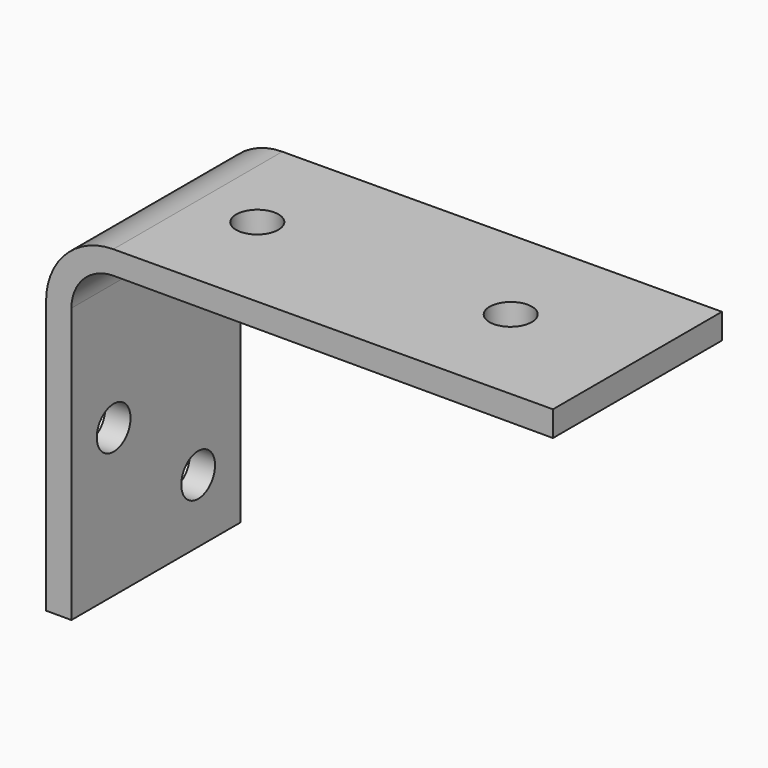
from build123d import *

# Parameters (mm, degrees)
F1_DEPTH = 50
F2_R     = 5
F3_DEPTH = 25
F4_R     = 5
F5_DEPTH = 25


with BuildPart() as f1:
    # F0 (on Front) → F1 (new body)
    with BuildSketch(Plane.XZ):
        with BuildLine():
            ThreePointArc((-43.8768457623, 71.994107108), (-55.1426401019, 67.2817681029), (-59.8027732582, 55.9942785694))
            Line((-59.8027732582, 55.9942785694), (-59.8027732582, -8.5240794845))
            Line((-59.8027732582, -8.5240794845), (-53.8027732582, -8.5240794845))
            Line((-53.8027732582, -8.5240794845), (-53.8027732582, 56.4759205155))
            ThreePointArc((-53.8027732582, 56.4759205155), (-50.8738410701, 63.5469883274), (-43.8027732582, 66.4759205155))
            Line((-43.8027732582, 66.4759205155), (60.1959407812, 66.4759205155))
            Line((60.1959407812, 66.4759205155), (60.1959407812, 72.4759205155))
            Line((60.1959407812, 72.4759205155), (-43.8768457623, 71.994107108))
        make_face()
    extrude(amount=F1_DEPTH)

    # F2 (on face) → F3 (cut)
    with BuildSketch(Plane(origin=(-0.3342358086, 0, 72.1956911529), x_dir=(0.9999892837, 0, 0.0046295315), z_dir=(-0.0046295315, 0, 0.9999892837))):
        with Locations((-29.4691747415, -25)):
            Circle(F2_R)
        with Locations((30.5308252585, -25)):
            Circle(F2_R)
    extrude(amount=-F3_DEPTH, mode=Mode.SUBTRACT)

    # F4 (on face) → F5 (cut)
    with BuildSketch(Plane.YZ.offset(-53.8027732582)):
        with Locations((-12.5, 6.4759205155)):
            Circle(F4_R)
        with Locations((-37.5, 26.4759205155)):
            Circle(F4_R)
    extrude(amount=-F5_DEPTH, mode=Mode.SUBTRACT)


solid = f1.part
